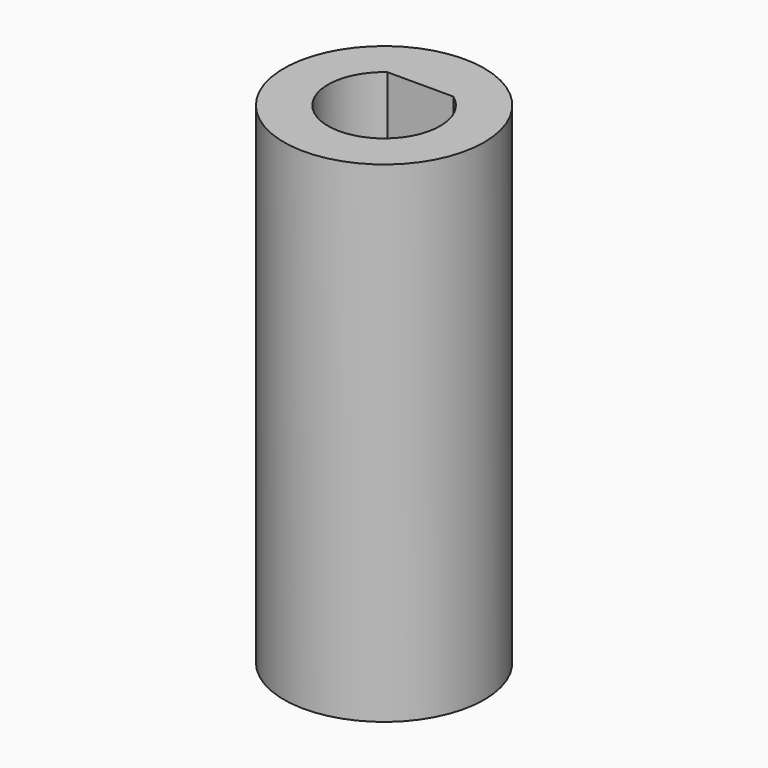
from build123d import *

# Parameters (mm, degrees)
F0_R     = 5
F1_DEPTH = 6
F2_R     = 5
F3_DEPTH = 18.5


with BuildPart() as f1:
    # F0 (on Top) → F1 (new body)
    with BuildSketch(Plane.XY):
        Circle(F0_R)
        with BuildLine():
            ThreePointArc((1.75, 2.185749), (2.523886, 1.212436), (2.8, 0))
            ThreePointArc((2.8, 0), (-1.212436, -2.523886), (-1.75, 2.185749))
            ThreePointArc((-1.75, 2.185749), (0, 2.8), (1.75, 2.185749))
        make_face(mode=Mode.SUBTRACT)
    extrude(amount=F1_DEPTH)

    # F2 (on face) → F3 (join)
    with BuildSketch(Plane.XY.offset(6)):
        Circle(F2_R)
        with BuildLine():
            ThreePointArc((2.8, 0), (-1.268858, -2.495997), (-1.65, 2.262189))
            ThreePointArc((-1.65, 2.262189), (0, 2.8), (1.65, 2.262189))
            ThreePointArc((1.65, 2.262189), (2.495997, 1.268858), (2.8, 0))
        make_face(mode=Mode.SUBTRACT)
        with BuildLine():
            ThreePointArc((1.65, 2.262189), (0, 2.8), (-1.65, 2.262189))
            Line((-1.65, 2.262189), (1.65, 2.262189))
        make_face()
    extrude(amount=F3_DEPTH)


solid = f1.part
